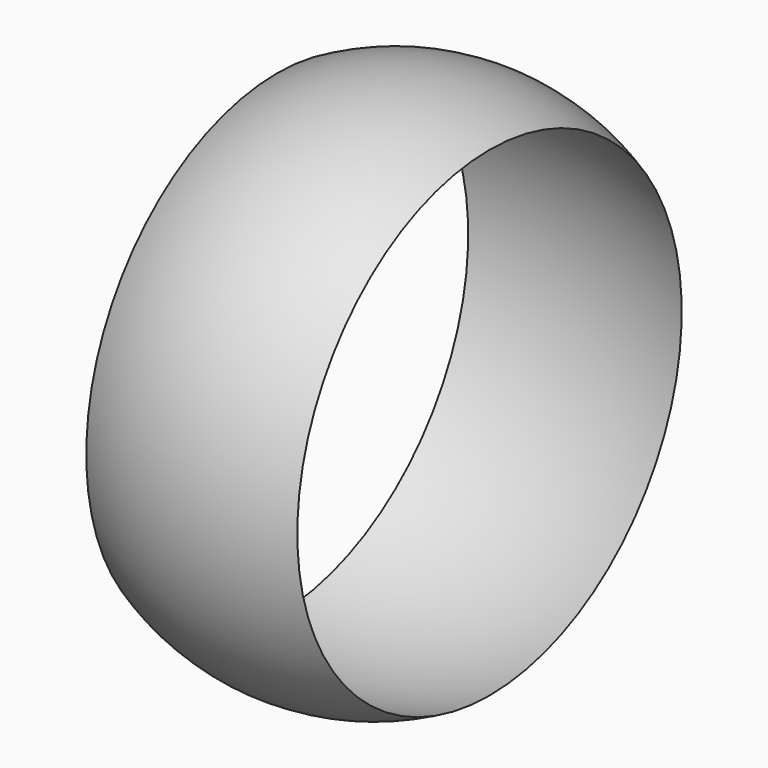
from build123d import *


with BuildPart() as f1:
    # F0 (on Front) → F1 (revolve)
    with BuildSketch(Plane.XZ):
        with BuildLine():
            ThreePointArc((-5.174519, 11.425263), (-0.099165, 12.080286), (4.98521, 11.499421))
            ThreePointArc((4.98521, 11.499421), (-0.103685, 12.699545), (-5.174519, 11.425263))
        make_face()
    revolve(axis=Axis((0.215568, 0, 0), (1, 0, 0)))


solid = f1.part
